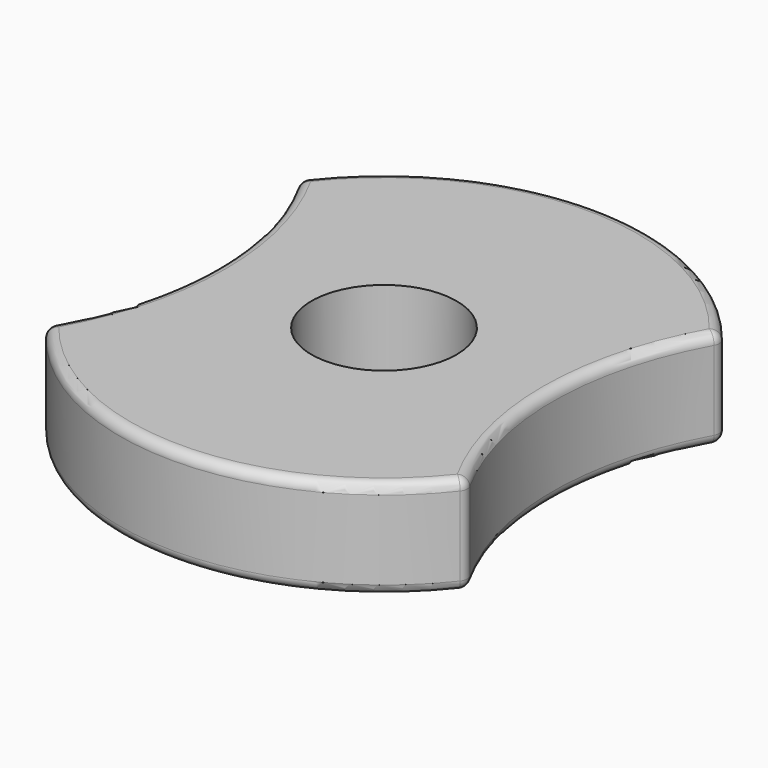
from build123d import *

# Parameters (mm, degrees)
F0_R     = 11
F1_DEPTH = 15
F2_R     = 1.5


with BuildPart() as f1:
    # F0 (on Top) → F1 (new body)
    with BuildSketch(Plane.XY):
        with BuildLine():
            ThreePointArc((-32, 24), (-25.569219, 0), (-32, -24))
            ThreePointArc((-32, -24), (0, -40), (32, -24))
            ThreePointArc((32, -24), (25.569219, 0), (32, 24))
            ThreePointArc((32, 24), (0, 40), (-32, 24))
        make_face()
        Circle(F0_R, mode=Mode.SUBTRACT)
    extrude(amount=F1_DEPTH)

    # F2
    f2_edges = [f1.edges().sort_by_distance(p)[0] for p in [
        (-32, -24, 7.5),
        (32, -24, 7.5),
        (0, -40, 0),
        (0, -40, 15),
        (32, 24, 7.5),
        (25.569219, 0, 0),
        (25.569219, 0, 15),
        (-32, 24, 7.5),
        (0, 40, 0),
        (0, 40, 15),
        (-25.569219, 0, 0),
        (-25.569219, 0, 15),
    ]]
    fillet(f2_edges, radius=F2_R)


solid = f1.part
